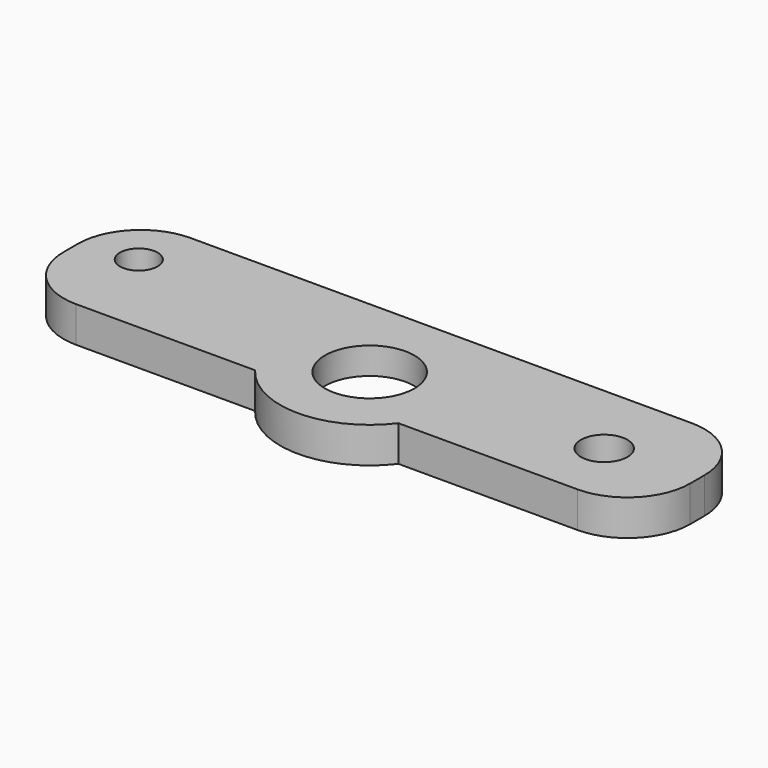
from build123d import *

# Parameters (mm, degrees)
SKETCH_R     = 2.1
SKETCH_R_2   = 5
SKETCH_R_3   = 2.6
PAD_DEPTH    = 4
FILLET_R     = 7
FILLET001_R  = 7
SKETCH001_R  = 7.75
POCKET_DEPTH = 1


with BuildPart() as part:
    # Sketch → Pad (new body)
    with BuildSketch(Plane.XY):
        with BuildLine():
            Line((0, 0), (27, 0))
            ThreePointArc((27, 0), (35, -4), (43, 0))
            Line((43, 0), (70, 0))
            Line((70, 0), (70, 16))
            Line((70, 16), (0, 16))
            Line((0, 16), (0, 0))
        make_face()
        with Locations((6, 10)):
            Circle(SKETCH_R, mode=Mode.SUBTRACT)
        with Locations((35, 6)):
            Circle(SKETCH_R_2, mode=Mode.SUBTRACT)
        with Locations((60, 7.5)):
            Circle(SKETCH_R_3, mode=Mode.SUBTRACT)
    extrude(amount=PAD_DEPTH)

    # Fillet
    fillet_edges = [part.edges().sort_by_distance(p)[0] for p in [
        (70, 0, 2),
        (70, 16, 2),
    ]]
    fillet(fillet_edges, radius=FILLET_R)

    # Fillet001
    fillet001_edges = [part.edges().sort_by_distance(p)[0] for p in [
        (0, 0, 2),
        (0, 16, 2),
    ]]
    fillet(fillet001_edges, radius=FILLET001_R)

    # Sketch001 (on Face1 of Fillet001) → Pocket (cut)
    with BuildSketch(Plane(origin=(0, 0, 0), x_dir=(1, 0, 0), z_dir=(0, 0, -1))):
        with Locations((35, -6)):
            Circle(SKETCH001_R)
    extrude(amount=-POCKET_DEPTH, mode=Mode.SUBTRACT)


solid = part.part
